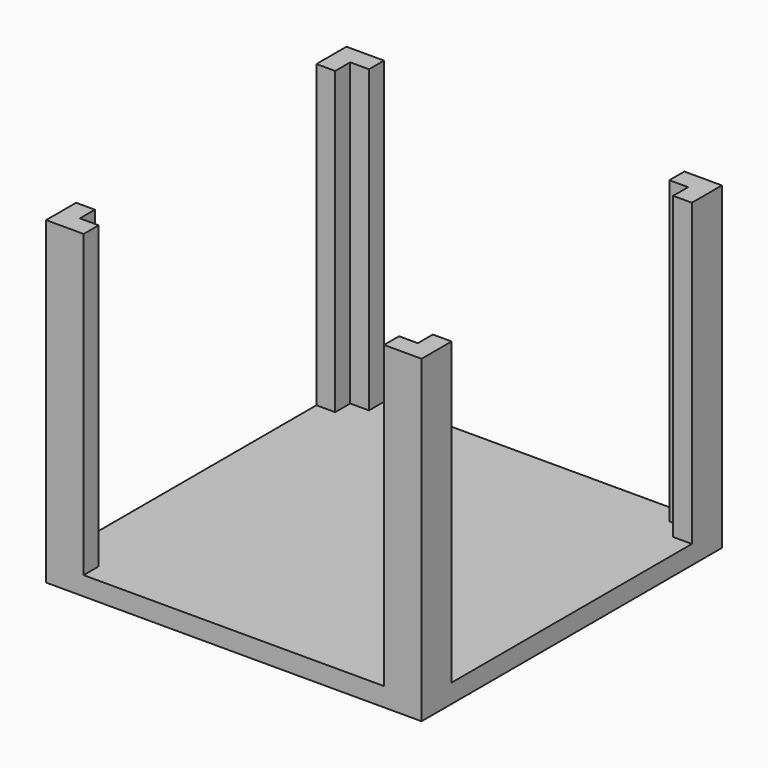
from build123d import *

# Parameters (mm, degrees)
F0_W     = 100
F0_H     = 100
F1_DEPTH = 5
F3_DEPTH = 80


with BuildPart() as f1:
    # F0 (on Top) → F1 (new body)
    with BuildSketch(Plane.XY):
        Rectangle(F0_W, F0_H)
    extrude(amount=F1_DEPTH)

    # F2 (on face) → F3 (join)
    with BuildSketch(Plane.XY.offset(5)):
        Polygon((-40, 45), (-40, 50), (-50, 50), (-50, 40), (-45, 40), (-45, 45), align=None)
        Polygon((40, 45), (45, 45), (45, 40), (50, 40), (50, 50), (40, 50), align=None)
        Polygon((-40, -45), (-45, -45), (-45, -40), (-50, -40), (-50, -50), (-40, -50), align=None)
        Polygon((50, -40), (45, -40), (45, -45), (40, -45), (40, -50), (50, -50), align=None)
    extrude(amount=F3_DEPTH)


solid = f1.part
